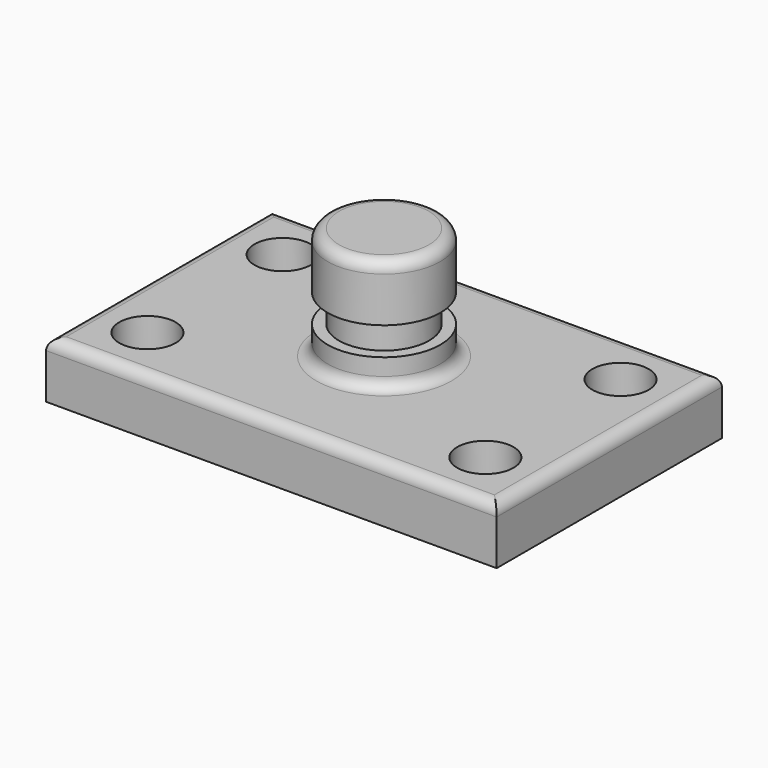
from build123d import *

# Parameters (mm, degrees)
F0_W     = 101.6
F0_H     = 63.5
F1_DEPTH = 12.7
F2_R     = 6.35
F2_R_2   = 6.349997
F3_DEPTH = 12.701
F4_W     = 12.7
F4_H     = 25.4
F6_W     = 7.62
F6_H     = 6.35
F8_R     = 2.54
F9_R     = 2.54


with BuildPart() as f1:
    # F0 (on Top) → F1 (new body)
    with BuildSketch(Plane.XY):
        Rectangle(F0_W, F0_H)
    extrude(amount=F1_DEPTH)

    # F2 (on face) → F3 (cut, through all)
    with BuildSketch(Plane.XY.offset(12.7)):
        with Locations((-38.1, -19.05)):
            Circle(F2_R)
        with Locations((-38.1, 19.05)):
            Circle(F2_R)
        with Locations((38.1, 19.05)):
            Circle(F2_R_2)
        with Locations((38.1, -19.05)):
            Circle(F2_R)
    extrude(amount=-F3_DEPTH, mode=Mode.SUBTRACT)

    # F4 (on Front) → F5 (revolve)
    with BuildSketch(Plane.XZ):
        with Locations((6.35, 25.4)):
            Rectangle(F4_W, F4_H)
    revolve(axis=Axis((0, 0, 25.4), (0, 0, 1)))

    # F6 (on Front) → F7 (revolve, cut)
    with BuildSketch(Plane.XZ):
        with Locations((13.97, 22.225)):
            Rectangle(F6_W, F6_H)
    revolve(axis=Axis((0, 0, 12.7), (0, 0, 1)), mode=Mode.SUBTRACT)

    # F8
    f8_edges = [f1.edges().sort_by_distance(p)[0] for p in [
        (0, 31.75, 12.7),
        (0, -31.75, 12.7),
        (-50.8, 0, 12.7),
        (50.8, 0, 12.7),
    ]]
    fillet(f8_edges, radius=F8_R)

    # F9
    f9_edges = [f1.edges().sort_by_distance(p)[0] for p in [
        (-12.7, 0, 12.7),
        (-12.7, 0, 38.1),
    ]]
    fillet(f9_edges, radius=F9_R)


solid = f1.part
